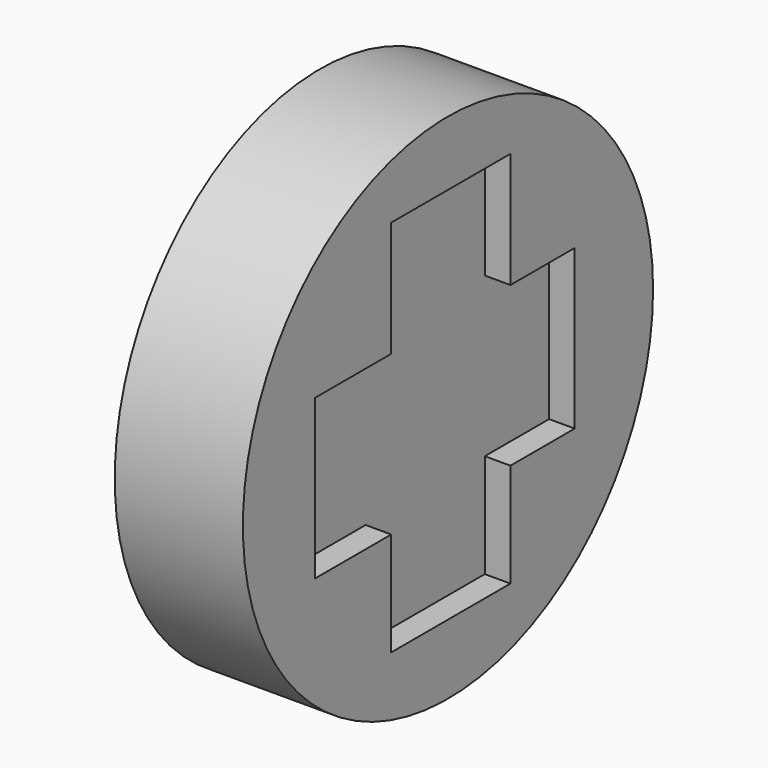
from build123d import *

# Parameters (mm, degrees)
RECTANGLE011_W   = 1.162341
RECTANGLE011_H   = 2.951559
EXTRUDE034_DEPTH = 0.5
RECTANGLE010_W   = 2.533642
RECTANGLE010_H   = 1.2407
EXTRUDE033_DEPTH = 0.5
CIRCLE016_R      = 2
EXTRUDE032_DEPTH = 1


with BuildPart() as extrude034:
    # Rectangle011 → Extrude034 (new body)
    with BuildSketch(Plane(origin=(1, -5.654904, 34.839096), x_dir=(0, 1, 0), z_dir=(1, 0, 0))):
        with Locations((0.58117, -1.47578)):
            Rectangle(RECTANGLE011_W, RECTANGLE011_H)
    extrude(amount=EXTRUDE034_DEPTH)


with BuildPart() as extrude034_1:
    # Extrude034 placement: moved
    add(extrude034.part.moved(Location((-0.2, 0, 0))))


with BuildPart() as extrude033:
    # Rectangle010 → Extrude033 (new body)
    with BuildSketch(Plane(origin=(1, -6.399324, 33.937958), x_dir=(0, 1, 0), z_dir=(1, 0, 0))):
        with Locations((1.266821, -0.62035)):
            Rectangle(RECTANGLE010_W, RECTANGLE010_H)
    extrude(amount=EXTRUDE033_DEPTH)


with BuildPart() as extrude033_1:
    # Extrude033 placement: moved
    add(extrude033.part.moved(Location((-0.2, 0, 0))))


with BuildPart() as parafuso1:
    # Circle016 → Extrude032 (new body)
    with BuildSketch(Plane(origin=(0, -5.101484, 33.343727), x_dir=(0, 1, 0), z_dir=(1, 0, 0))):
        Circle(CIRCLE016_R)
    extrude(amount=EXTRUDE032_DEPTH)

    # Cut007: cut Extrude033
    add(extrude033_1.part, mode=Mode.SUBTRACT)

    # Cut008: cut Extrude034
    add(extrude034_1.part, mode=Mode.SUBTRACT)


with BuildPart() as parafuso1_1:
    # Cut008 placement: moved
    add(parafuso1.part.moved(Location((18, 39.5, -17))))


solid = parafuso1_1.part
